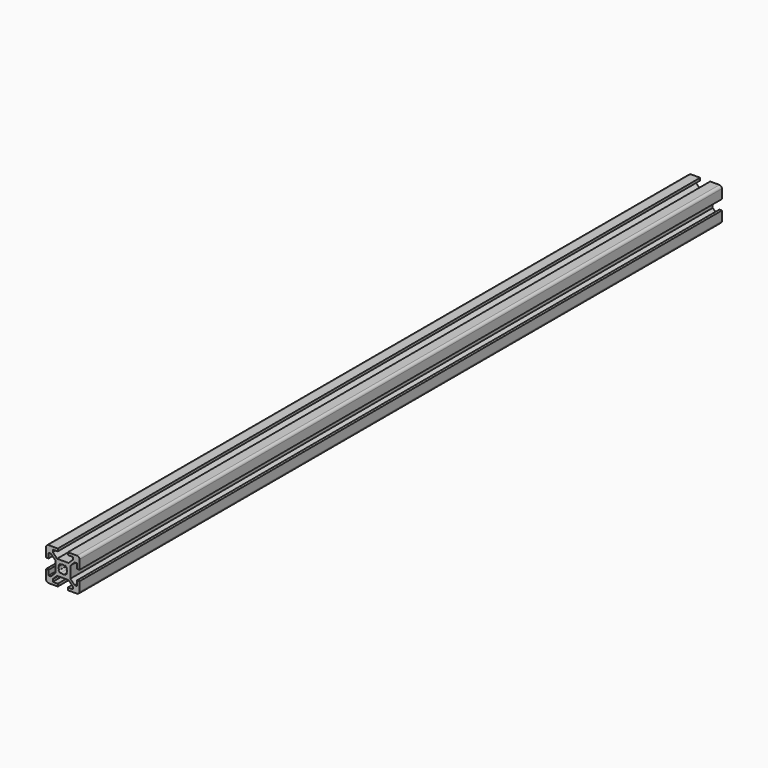
from build123d import *

# Parameters (mm, degrees)
F1_DEPTH = 480


with BuildPart() as f1:
    # F0 (on Front) → F1 (new body)
    with BuildSketch(Plane.XZ):
        with BuildLine():
            Line((3, -10), (8.5, -10))
            ThreePointArc((8.5, -10), (9.5606601718, -9.5606601718), (10, -8.5))
            Line((10, -8.5), (10, -3))
            Line((10, -3), (8.5, -3))
            Line((8.5, -3), (8.5, -6))
            Line((8.5, -6), (7.0606601718, -6))
            Line((7.0606601718, -6), (4.5, -3.4393398282))
            Line((4.5, -3.4393398282), (4.5, 3.4393398282))
            Line((4.5, 3.4393398282), (7.0606601718, 6))
            Line((7.0606601718, 6), (8.5, 6))
            Line((8.5, 6), (8.5, 3))
            Line((8.5, 3), (10, 3))
            Line((10, 3), (10, 8.5))
            ThreePointArc((10, 8.5), (9.5606601718, 9.5606601718), (8.5, 10))
            Line((8.5, 10), (3, 10))
            Line((3, 10), (3, 8.5))
            Line((3, 8.5), (6, 8.5))
            Line((6, 8.5), (6, 7.0606601718))
            Line((6, 7.0606601718), (3.4393398282, 4.5))
            Line((3.4393398282, 4.5), (-3.4393398282, 4.5))
            Line((-3.4393398282, 4.5), (-6, 7.0606601718))
            Line((-6, 7.0606601718), (-6, 8.5))
            Line((-6, 8.5), (-3, 8.5))
            Line((-3, 8.5), (-3, 10))
            Line((-3, 10), (-8.5, 10))
            ThreePointArc((-8.5, 10), (-9.5606601718, 9.5606601718), (-10, 8.5))
            Line((-10, 8.5), (-10, 3))
            Line((-10, 3), (-8.5, 3))
            Line((-8.5, 3), (-8.5, 6))
            Line((-8.5, 6), (-7.0606601718, 6))
            Line((-7.0606601718, 6), (-4.5, 3.4393398282))
            Line((-4.5, 3.4393398282), (-4.5, -3.4393398282))
            Line((-4.5, -3.4393398282), (-7.0606601718, -6))
            Line((-7.0606601718, -6), (-8.5, -6))
            Line((-8.5, -6), (-8.5, -3))
            Line((-8.5, -3), (-10, -3))
            Line((-10, -3), (-10, -8.5))
            ThreePointArc((-10, -8.5), (-9.5606601718, -9.5606601718), (-8.5, -10))
            Line((-8.5, -10), (-3, -10))
            Line((-3, -10), (-3, -8.5))
            Line((-3, -8.5), (-6, -8.5))
            Line((-6, -8.5), (-6, -7.0606601718))
            Line((-6, -7.0606601718), (-3.4393398282, -4.5))
            Line((-3.4393398282, -4.5), (3.4393398282, -4.5))
            Line((3.4393398282, -4.5), (6, -7.0606601718))
            Line((6, -7.0606601718), (6, -8.5))
            Line((6, -8.5), (3, -8.5))
            Line((3, -8.5), (3, -10))
        make_face()
        with BuildLine():
            ThreePointArc((-1.1560121095, 2.2166722813), (0, 2.5), (1.1560121095, 2.2166722813))
            Line((1.1560121095, 2.2166722813), (1.4393398282, 2.5))
            Line((1.4393398282, 2.5), (2.5, 1.4393398282))
            Line((2.5, 1.4393398282), (2.2166722813, 1.1560121095))
            ThreePointArc((2.2166722813, 1.1560121095), (2.5, 0), (2.2166722813, -1.1560121095))
            Line((2.2166722813, -1.1560121095), (2.5, -1.4393398282))
            Line((2.5, -1.4393398282), (1.4393398282, -2.5))
            Line((1.4393398282, -2.5), (1.1560121095, -2.2166722813))
            ThreePointArc((1.1560121095, -2.2166722813), (0, -2.5), (-1.1560121095, -2.2166722813))
            Line((-1.1560121095, -2.2166722813), (-1.4393398282, -2.5))
            Line((-1.4393398282, -2.5), (-2.5, -1.4393398282))
            Line((-2.5, -1.4393398282), (-2.2166722813, -1.1560121095))
            ThreePointArc((-2.2166722813, -1.1560121095), (-2.5, 0), (-2.2166722813, 1.1560121095))
            Line((-2.2166722813, 1.1560121095), (-2.5, 1.4393398282))
            Line((-2.5, 1.4393398282), (-1.4393398282, 2.5))
            Line((-1.4393398282, 2.5), (-1.1560121095, 2.2166722813))
        make_face(mode=Mode.SUBTRACT)
    extrude(amount=F1_DEPTH)


solid = f1.part
